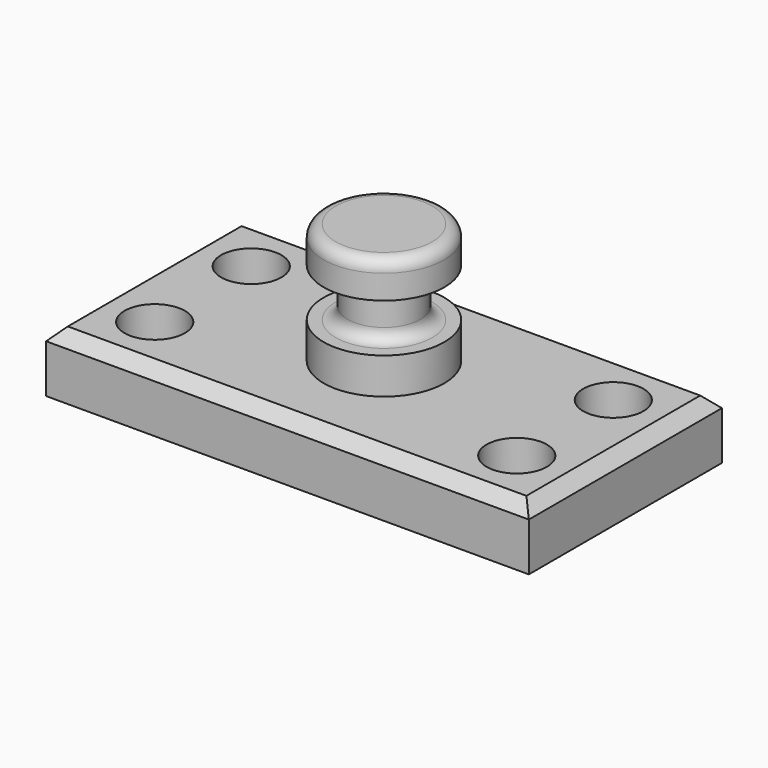
from build123d import *

# Parameters (mm, degrees)
F0_W     = 101.6
F0_H     = 50.8
F1_DEPTH = 12.7
F2_R     = 6.35
F3_DEPTH = 12.701
F4_W     = 12.7
F4_H     = 25.4
F6_W     = 5.08
F6_H     = 10.16
F8_R     = 2.54
F9_SIZE2 = 2.54
F9_SIZE  = 2.54


with BuildPart() as f1:
    # F0 (on Top) → F1 (new body)
    with BuildSketch(Plane.XY):
        Rectangle(F0_W, F0_H)
    extrude(amount=F1_DEPTH)

    # F2 (on face) → F3 (cut, through all)
    with BuildSketch(Plane.XY.offset(12.7)):
        with Locations((38.1, 12.7)):
            Circle(F2_R)
        with Locations((38.1, -12.7)):
            Circle(F2_R)
        with Locations((-38.1, 12.7)):
            Circle(F2_R)
        with Locations((-38.1, -12.7)):
            Circle(F2_R)
    extrude(amount=-F3_DEPTH, mode=Mode.SUBTRACT)

    # F4 (on Front) → F5 (revolve)
    with BuildSketch(Plane.XZ):
        with Locations((6.35, 25.4)):
            Rectangle(F4_W, F4_H)
    revolve(axis=Axis((0, 0, 25.4), (0, 0, 1)))

    # F6 (on Front) → F7 (revolve, cut)
    with BuildSketch(Plane.XZ):
        with Locations((10.16, 25.4)):
            Rectangle(F6_W, F6_H)
    revolve(axis=Axis((0, 0, 12.7), (0, 0, 1)), mode=Mode.SUBTRACT)

    # F8
    f8_edges = [f1.edges().sort_by_distance(p)[0] for p in [
        (-12.7, 0, 38.1),
        (-7.62, 0, 20.32),
    ]]
    fillet(f8_edges, radius=F8_R)

    # F9
    f9_edges = [f1.edges().sort_by_distance(p)[0] for p in [
        (0, -25.4, 12.7),
        (50.8, 0, 12.7),
        (0, 25.4, 12.7),
        (-50.8, 0, 12.7),
    ]]
    chamfer(f9_edges, length=F9_SIZE, length2=F9_SIZE2)


solid = f1.part
